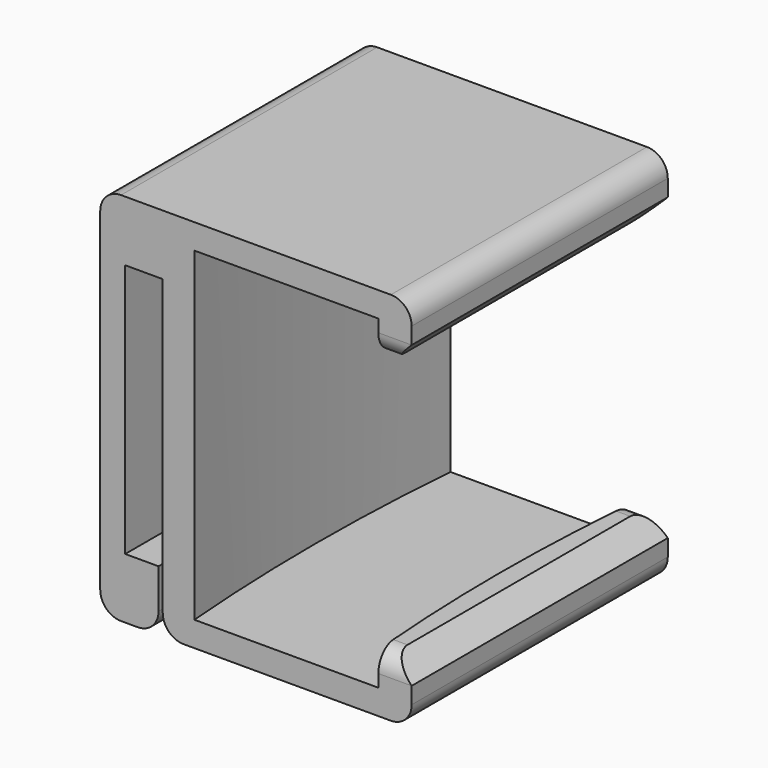
from build123d import *

# Parameters (mm, degrees)
SKETCH032_W     = 11.9495428665
SKETCH032_H     = 15.3649565959
PAD021_DEPTH    = 1.2
PAD022_DEPTH    = 15.6
SKETCH034_W     = 11.9495428665
SKETCH034_H     = 15.3649565959
PAD023_DEPTH    = 1.2
PAD024_DEPTH    = 1.6
PAD025_DEPTH    = 1.6
PAD026_DEPTH    = 15.3649565959
CHAMFER009_SIZE = 1
FILLET003_R     = 1


with BuildPart() as part:
    # Sketch032 → Pad021 (new body)
    with BuildSketch(Plane.XY):
        with Locations((-88.6252285667, 0)):
            Rectangle(SKETCH032_W, SKETCH032_H)
    extrude(amount=PAD021_DEPTH)

    # Sketch033 → Pad022 (join)
    with BuildSketch(Plane.XY.offset(1.2)):
        with BuildLine():
            ThreePointArc((-93.0835083525, 7.682478298), (-93.4, 0), (-93.0835083525, -7.682478298))
            Line((-94.6, -7.682478298), (-93.0835083525, -7.682478298))
            Line((-94.6, 7.682478298), (-94.6, -7.682478298))
            Line((-93.0835083525, 7.682478298), (-94.6, 7.682478298))
        make_face()
    extrude(amount=PAD022_DEPTH)

    # Sketch034 → Pad023 (join)
    with BuildSketch(Plane.XY.offset(16.8)):
        with Locations((-88.6252285667, 0)):
            Rectangle(SKETCH034_W, SKETCH034_H)
    extrude(amount=PAD023_DEPTH)

    # Sketch035 → Pad024 (join)
    with BuildSketch(Plane.XY.offset(1.2)):
        with BuildLine():
            ThreePointArc((-84.2504571335, 7.682478298), (-84.6, 0), (-84.2504571335, -7.682478298))
            Line((-82.6504571335, -7.682478298), (-84.2504571335, -7.682478298))
            Line((-82.6504571335, 7.682478298), (-82.6504571335, -7.682478298))
            Line((-84.2504571335, 7.682478298), (-82.6504571335, 7.682478298))
        make_face()
    extrude(amount=PAD024_DEPTH)

    # Sketch036 → Pad025 (join)
    with BuildSketch(Plane.XY.offset(16.8)):
        with BuildLine():
            ThreePointArc((-84.2504571335, 7.682478298), (-84.6, 0), (-84.2504571335, -7.682478298))
            Line((-82.6504571335, -7.682478298), (-84.2504571335, -7.682478298))
            Line((-82.6504571335, 7.682478298), (-82.6504571335, -7.682478298))
            Line((-84.2504571335, 7.682478298), (-82.6504571335, 7.682478298))
        make_face()
    extrude(amount=-PAD025_DEPTH)

    # Sketch031 (on Plane of DatumPlane) → Pad026 (join)
    with BuildSketch(Plane(origin=(-94.6, -7.682478298, 0), x_dir=(-1, 0, 0), z_dir=(0, 1, 0))):
        Polygon((0, 15.1), (0, 18), (3, 18), (3, 0), (0.2, 0), (0.2, 2.9), (1.8, 2.9), (1.8, 15.1), align=None)
    extrude(amount=PAD026_DEPTH)

    # Chamfer009
    chamfer009_edges = [part.edges().sort_by_distance(p)[0] for p in [
        (-82.650457, 0, 15.2),
        (-82.650457, 0, 2.8),
    ]]
    chamfer(chamfer009_edges, length=CHAMFER009_SIZE)

    # Fillet003
    fillet003_edges = [part.edges().sort_by_distance(p)[0] for p in [
        (-97.6, 0, 0),
        (-97.6, 0, 18),
        (-94.8, 0, 0),
        (-94.6, 0, 0),
        (-82.650457, 0, 0),
        (-83.950457, 7.682478, 2.8),
        (-83.950457, 7.682478, 15.2),
        (-83.950457, -7.682478, 2.8),
        (-83.950457, -7.682478, 15.2),
        (-82.650457, 0, 18),
    ]]
    fillet(fillet003_edges, radius=FILLET003_R)


with BuildPart() as part_1:
    # Body008 placement: moved
    add(part.part.moved(Location((0, 0, -1.4))))


solid = part_1.part
